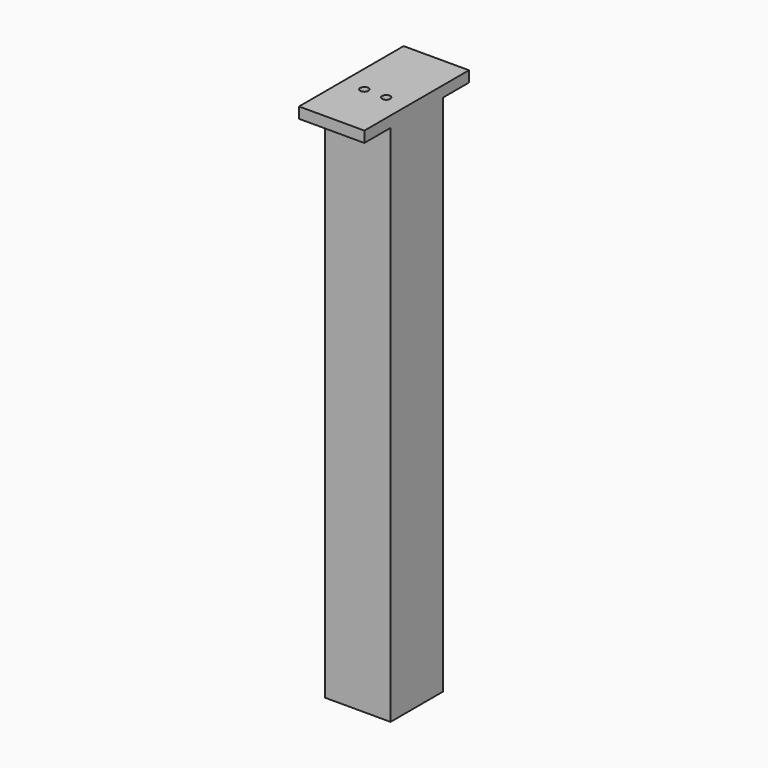
from build123d import *

# Parameters (mm, degrees)
F0_W     = 76.2
F0_H     = 76.2
F0_W_2   = 63.5
F0_H_2   = 63.5
F1_DEPTH = 609.6
F2_W     = 76.2
F2_H     = 152.4
F3_DEPTH = 12.7
F4_R     = 4.7625
F5_DEPTH = 25.4


with BuildPart() as f1:
    # F0 (on Top) → F1 (new body)
    with BuildSketch(Plane.XY):
        with Locations((38.1, 38.1)):
            Rectangle(F0_W, F0_H)
        with Locations((38.1, 38.1)):
            Rectangle(F0_W_2, F0_H_2, mode=Mode.SUBTRACT)
    extrude(amount=F1_DEPTH)

    # F2 (on face) → F3 (join)
    with BuildSketch(Plane.XY.offset(609.6)):
        with Locations((38.1, 38.1)):
            Rectangle(F2_W, F2_H)
    extrude(amount=F3_DEPTH)

    # F4 (on face) → F5 (cut)
    with BuildSketch(Plane.XY.offset(622.3)):
        with Locations((50.8, 25.4)):
            Circle(F4_R)
        with Locations((25.4, 25.4)):
            Circle(F4_R)
    extrude(amount=-F5_DEPTH, mode=Mode.SUBTRACT)


solid = f1.part
